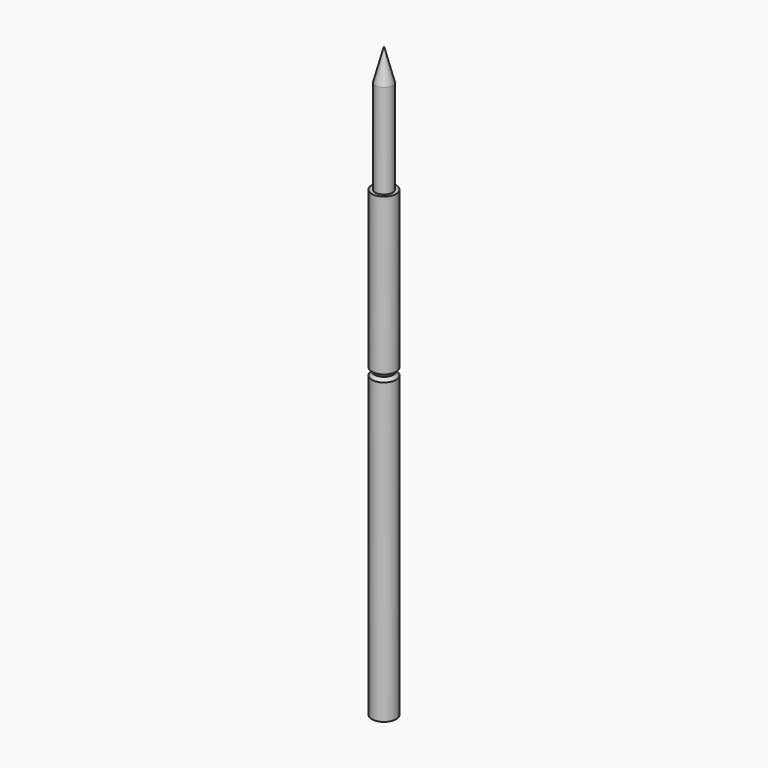
from build123d import *


with BuildPart() as part:
    # Sketch → Revolution (revolve)
    with BuildSketch(Plane.XZ):
        Polygon((0, 0), (-0.34, 0), (-0.34, 8.4), (-0.265, 8.5), (-0.34, 8.6), (-0.34, 13), (-0.24, 13), (-0.24, 15.654308), (0, 16.55), align=None)
    revolve(axis=Axis((0, 0, 0), (0, 0, 1)))


solid = part.part
